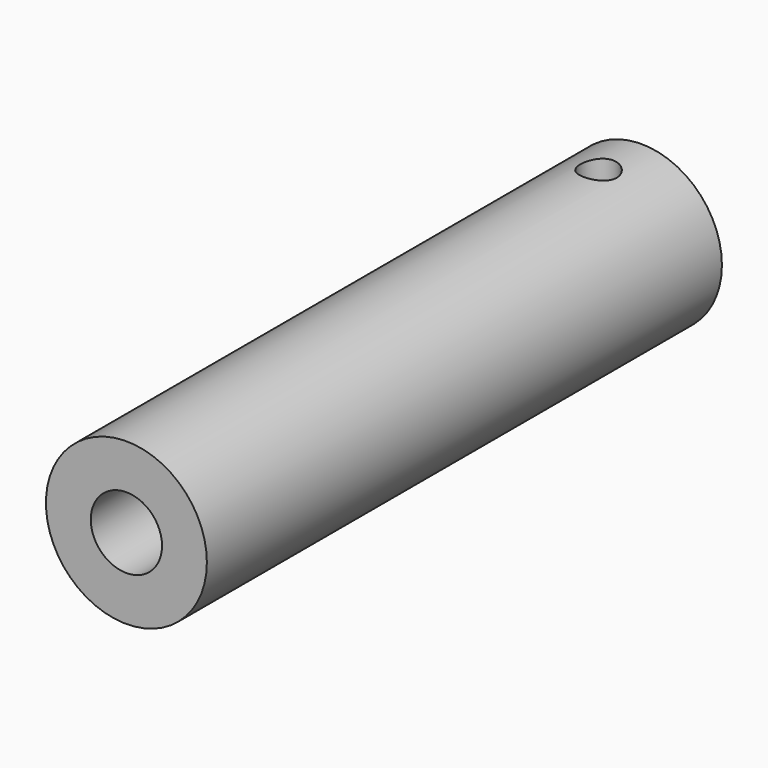
from build123d import *

# Parameters (mm, degrees)
F0_R     = 9.525
F1_DEPTH = 76.2
F2_W     = 11.43
F2_H     = 5.08
F3_DEPTH = 15.24
F5_R     = 2.15265
F6_DEPTH = 25.4
F7_R     = 4.2164
F8_DEPTH = 25.4


with BuildPart() as f1:
    # F0 (on Front) → F1 (new body)
    with BuildSketch(Plane.XZ):
        Circle(F0_R)
    extrude(amount=-F1_DEPTH)

    # F2 (on face) → F3 (cut)
    with BuildSketch(Plane(origin=(0, 76.2, 0), x_dir=(-1, 0, 0), z_dir=(0, 1, 0))):
        Rectangle(F2_W, F2_H)
    extrude(amount=-F3_DEPTH, mode=Mode.SUBTRACT)

    # F5 (on offset) → F6 (cut)
    with BuildSketch(Plane.XY.offset(9.525)):
        with Locations((0, 69.85)):
            Circle(F5_R)
    extrude(amount=-F6_DEPTH, mode=Mode.SUBTRACT)

    # F7 (on face) → F8 (cut)
    with BuildSketch(Plane.XZ):
        Circle(F7_R)
    extrude(amount=-F8_DEPTH, mode=Mode.SUBTRACT)


solid = f1.part
